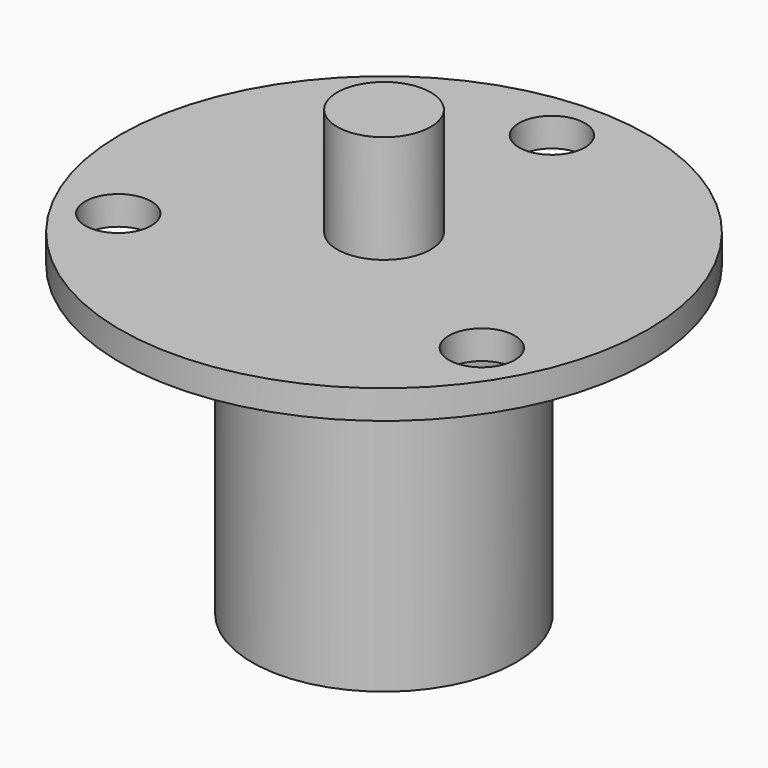
from build123d import *

# Parameters (mm, degrees)
F0_R     = 11
F1_DEPTH = 28
F2_R     = 22
F3_DEPTH = 2.4
F4_R     = 2.75
F5_DEPTH = 28.001
F6_R     = 3.9
F7_DEPTH = 9


with BuildPart() as f1:
    # F0 (on Top) → F1 (new body)
    with BuildSketch(Plane.XY):
        Circle(F0_R)
    extrude(amount=-F1_DEPTH)

    # F2 (on Top) → F3 (join)
    with BuildSketch(Plane.XY):
        Circle(F2_R)
    extrude(amount=-F3_DEPTH)

    # F4 (on face) → F5 (cut, through all)
    with BuildSketch(Plane.XY):
        with Locations((0, 17.5)):
            Circle(F4_R)
        with Locations((-15.155445, -8.75)):
            Circle(F4_R)
        with Locations((15.155445, -8.75)):
            Circle(F4_R)
    extrude(amount=-F5_DEPTH, mode=Mode.SUBTRACT)

    # F6 (on face) → F7 (join)
    with BuildSketch(Plane.XY):
        Circle(F6_R)
    extrude(amount=F7_DEPTH)


solid = f1.part
